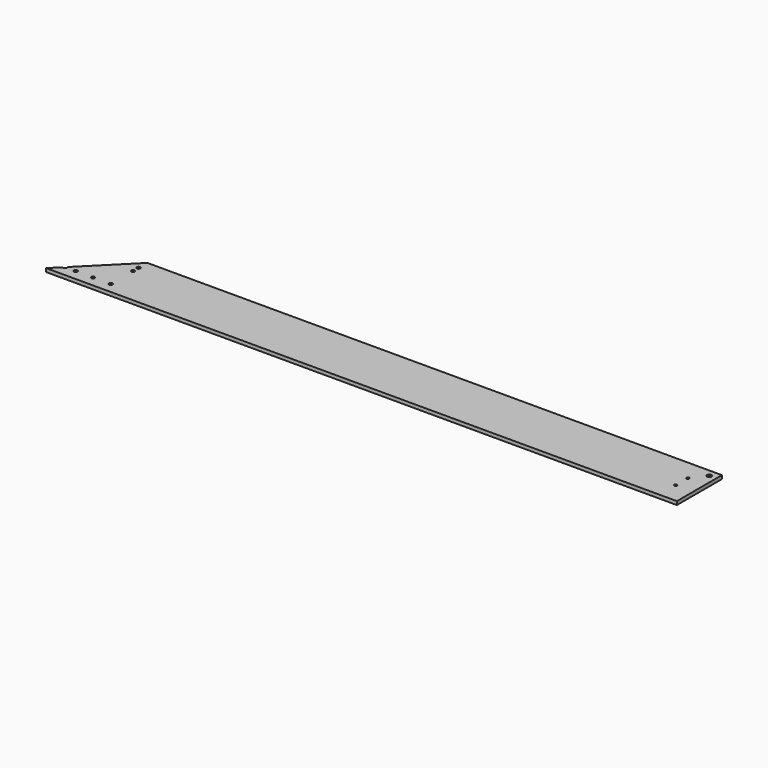
from build123d import *

# Parameters (mm, degrees)
F1_DEPTH        = 6.35
F3_D            = 6.5278
F3_CSINK_D      = 13.4874
F3_CSINK_ANGLE  = 82
F4_R            = 6.35
F5_DEPTH        = 3.683
F7_D            = 5.1054
F7_CSINK_D      = 10.4394
F7_CSINK_ANGLE  = 82
F9_D            = 6.7564
F10_R           = 3.175
F11_DEPTH       = 6.351
F12_W           = 1041.4
F12_H           = 0.4064
F13_DEPTH       = 6.35
F15_DEPTH       = 25.4
F17_D           = 8.2042
F17_CSINK_D     = 16.6624
F17_CSINK_ANGLE = 82


with BuildPart() as f1:
    # F0 (on Top) → F1 (new body)
    with BuildSketch(Plane.XY):
        Polygon((1041.4, 0), (0, 0), (-101.6, -101.6), (1041.4, -101.6), align=None)
    extrude(amount=F1_DEPTH)

    # F3 (through all)
    with Locations(Plane(origin=(0, 0, 0), x_dir=(1, 0, 0), z_dir=(0, 0, -1))):
        with Locations((-63.5, 82.55), (0, 82.55), (0, 19.05)):
            CounterSinkHole(F3_D / 2, F3_CSINK_D / 2, counter_sink_angle=F3_CSINK_ANGLE)

    # F4 (on face) → F5 (cut)
    with BuildSketch(Plane(origin=(0, 0, 0), x_dir=(1, 0, 0), z_dir=(0, 0, -1))):
        with Locations((50.8, 50.8)):
            Circle(F4_R)
        with Locations((806.45, 50.8)):
            Circle(F4_R)
    extrude(amount=-F5_DEPTH, mode=Mode.SUBTRACT)

    # F7 (through all)
    with Locations(Plane(origin=(0, 0, 0), x_dir=(1, 0, 0), z_dir=(0, 0, -1))):
        with Locations((1009.65, 64.5922), (1009.65, 37.0078)):
            CounterSinkHole(F7_D / 2, F7_CSINK_D / 2, counter_sink_angle=F7_CSINK_ANGLE)

    # F9 (through all)
    with Locations(Plane(origin=(0, 0, 0), x_dir=(1, 0, 0), z_dir=(0, 0, -1))):
        with Locations((-82.55, 82.55)):
            Hole(F9_D / 2)

    # F10 (on face) → F11 (cut, through all)
    with BuildSketch(Plane(origin=(0, 0, 0), x_dir=(1, 0, 0), z_dir=(0, 0, -1))):
        with Locations((-31.75, 82.55)):
            Circle(F10_R)
        with Locations((0, 31.75)):
            Circle(F10_R)
    extrude(amount=-F11_DEPTH, mode=Mode.SUBTRACT)

    # F12 (on Top) → F13 (join)
    with BuildSketch(Plane.XY):
        with Locations((520.7, 0.2032)):
            Rectangle(F12_W, F12_H)
    extrude(amount=F13_DEPTH)

    # F14 (on face) → F15 (cut)
    with BuildSketch(Plane.XY.offset(6.35)):
        Polygon((0, 0.4064), (0, 0), (0.4064, 0.4064), align=None)
    extrude(amount=-F15_DEPTH, mode=Mode.SUBTRACT)

    # F17 (through all)
    with Locations(Plane(origin=(0, 0, 0), x_dir=(1, 0, 0), z_dir=(0, 0, -1))):
        with Locations((1028.7, 12.2936)):
            CounterSinkHole(F17_D / 2, F17_CSINK_D / 2, counter_sink_angle=F17_CSINK_ANGLE)


solid = f1.part
